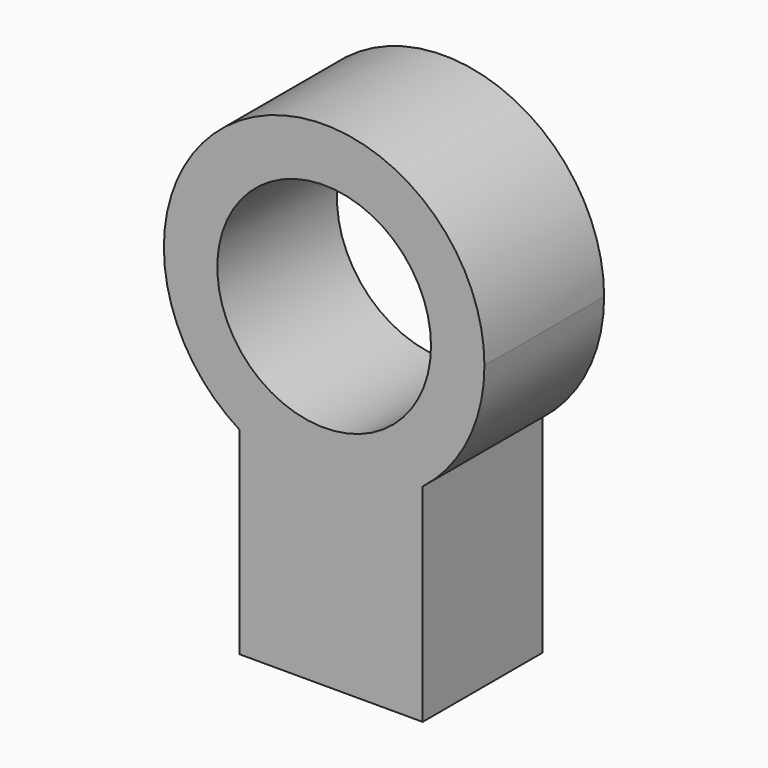
from build123d import *

# Parameters (mm, degrees)
F0_R     = 12.7
F1_DEPTH = 17.78


with BuildPart() as f1:
    # F0 (on Front) → F1 (new body)
    with BuildSketch(Plane.XZ):
        with BuildLine():
            ThreePointArc((11.7070009771, 28.2458162132), (17.1160870034, 34.9109398829), (19.05, 43.2740771945))
            ThreePointArc((19.05, 43.2740771945), (-9.2667170561, 59.9183090783), (-10.0345622049, 27.0811756214))
            Line((-10.0345622049, 27.0811756214), (-10.0345622049, 29.0098414834))
            Line((-10.0345622049, 29.0098414834), (11.7070009771, 29.0098414834))
            Line((11.7070009771, 29.0098414834), (11.7070009771, 28.2458162132))
        make_face()
        with Locations((0, 43.2740771945)):
            Circle(F0_R, mode=Mode.SUBTRACT)
        with BuildLine():
            Line((-10.0345622049, 29.0098414834), (-10.0345622049, 27.0811756214))
            ThreePointArc((-10.0345622049, 27.0811756214), (1.0189994057, 24.2513502551), (11.7070009771, 28.2458162132))
            Line((11.7070009771, 28.2458162132), (11.7070009771, 29.0098414834))
            Line((11.7070009771, 29.0098414834), (-10.0345622049, 29.0098414834))
        make_face()
        with BuildLine():
            ThreePointArc((11.7070009771, 28.2458162132), (1.0189994057, 24.2513502551), (-10.0345622049, 27.0811756214))
            Line((-10.0345622049, 27.0811756214), (-10.0345622049, 3.6098414834))
            Line((-10.0345622049, 3.6098414834), (11.7070009771, 3.6098414834))
            Line((11.7070009771, 3.6098414834), (11.7070009771, 28.2458162132))
        make_face()
    extrude(amount=F1_DEPTH)


solid = f1.part
